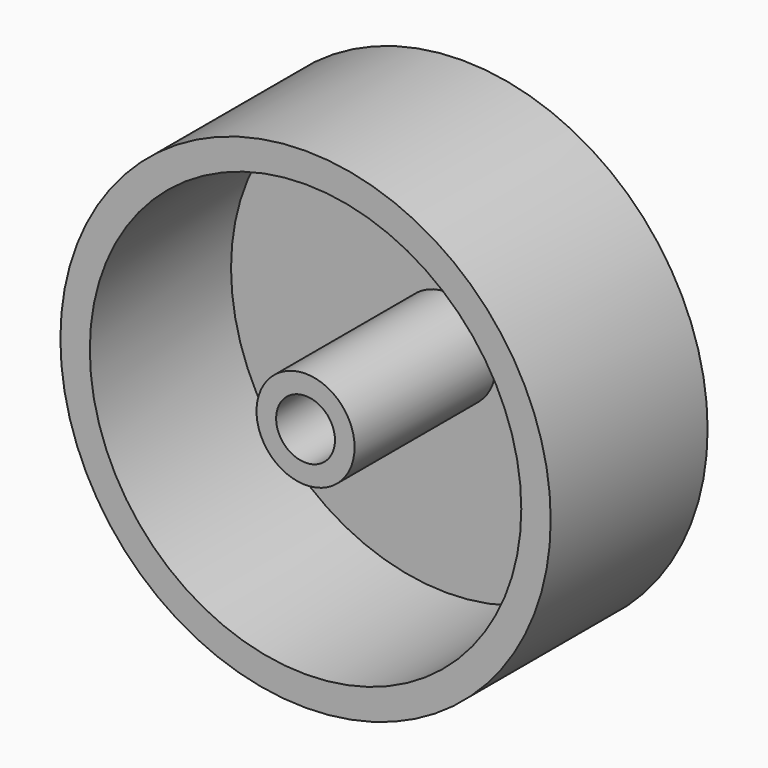
from build123d import *

# Parameters (mm, degrees)
F0_R     = 25
F0_R_2   = 22
F0_R_3   = 5
F0_R_4   = 3
F1_DEPTH = 20
F2_DEPTH = 18
F4_DEPTH = 5


with BuildPart() as f1:
    # F0 (on Front) → F1 (new body)
    with BuildSketch(Plane.XZ):
        Circle(F0_R)
        Circle(F0_R_2, mode=Mode.SUBTRACT)
        Circle(F0_R_2)
        Circle(F0_R_3, mode=Mode.SUBTRACT)
        Circle(F0_R_3)
        Circle(F0_R_4, mode=Mode.SUBTRACT)
    extrude(amount=-F1_DEPTH)

    # F0 (on Front) → F2 (cut)
    with BuildSketch(Plane.XZ):
        Circle(F0_R_2)
        Circle(F0_R_3, mode=Mode.SUBTRACT)
    extrude(amount=-F2_DEPTH, mode=Mode.SUBTRACT)


with BuildPart() as f4:
    # F3 (on face) → F4 (new body)
    with BuildSketch(Plane(origin=(0, 20, 0), x_dir=(-1, 0, 0), z_dir=(0, 1, 0))):
        with BuildLine():
            ThreePointArc((-3.9871794542, -24.68), (-0.1601283598, -28.9967935784), (4, -25))
            ThreePointArc((4, -25), (3.9967935784, -24.8398716402), (3.9871794542, -24.68))
            ThreePointArc((3.9871794542, -24.68), (0, -25), (-3.9871794542, -24.68))
        make_face()
    extrude(amount=-F4_DEPTH)


solid = Compound([f1.part, f4.part])
